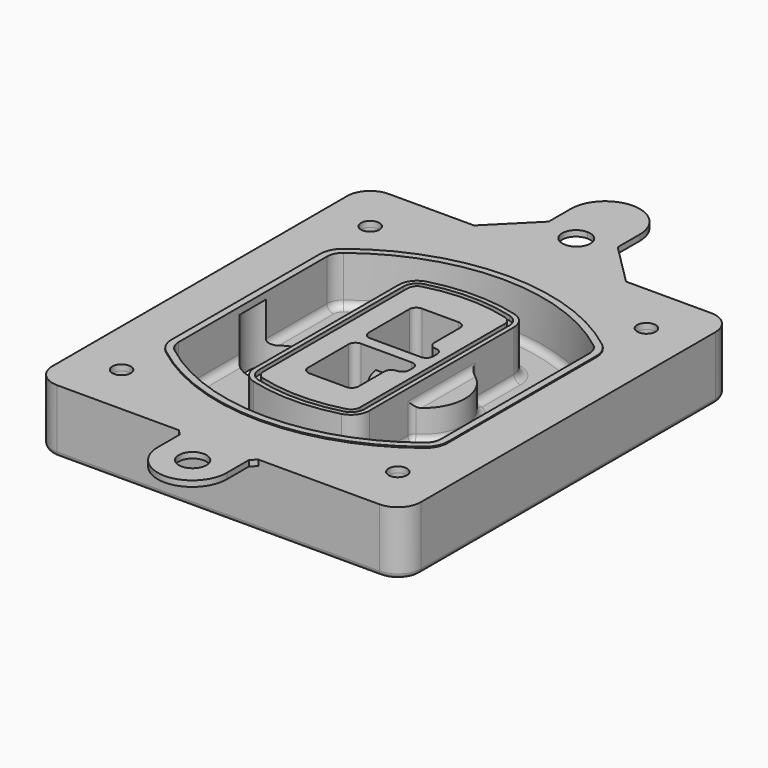
from build123d import *

# Parameters (mm, degrees)
F0_R      = 4
F1_DEPTH  = 25
F2_DEPTH  = 3
F3_DEPTH  = 18
F5_DEPTH  = 21
F6_DEPTH  = 2
F8_DEPTH  = 20
F9_DEPTH  = 16
F10_DEPTH = 25
F7_R      = 6
F7_R_2    = 4
F11_DEPTH = 6
F13_DEPTH = 9
F14_R     = 3
F15_R     = 2
F16_R     = 6
F16_R_2   = 4
F17_DEPTH = 2.5


with BuildPart() as f1:
    # F0 (on Top) → F1 (new body)
    with BuildSketch(Plane.XY):
        with BuildLine():
            ThreePointArc((-80, -80), (-77.0710678119, -87.0710678119), (-70, -90))
            Line((-70, -90), (70, -90))
            ThreePointArc((70, -90), (77.0710678119, -87.0710678119), (80, -80))
            Line((80, -80), (80, 80))
            ThreePointArc((80, 80), (77.0710678119, 87.0710678119), (70, 90))
            Line((70, 90), (-70, 90))
            ThreePointArc((-70, 90), (-77.0710678119, 87.0710678119), (-80, 80))
            Line((-80, 80), (-80, -80))
        make_face()
        with Locations((-60, -67.5)):
            Circle(F0_R, mode=Mode.SUBTRACT)
        with Locations((60, -67.5)):
            Circle(F0_R, mode=Mode.SUBTRACT)
        with Locations((-60, 67.5)):
            Circle(F0_R, mode=Mode.SUBTRACT)
        with BuildLine():
            ThreePointArc((-64, 40.2934422872), (-62.5820384798, 46.4328484224), (-58.6153846154, 51.3286200352))
            ThreePointArc((-58.6153846154, 51.3286200352), (0, 71.5), (58.6153846154, 51.3286200352))
            ThreePointArc((58.6153846154, 51.3286200352), (62.5820384798, 46.4328484224), (64, 40.2934422872))
            Line((64, 40.2934422872), (64, -40.2934422872))
            ThreePointArc((64, -40.2934422872), (62.5820384798, -46.4328484224), (58.6153846154, -51.3286200352))
            ThreePointArc((58.6153846154, -51.3286200352), (0, -71.5), (-58.6153846154, -51.3286200352))
            ThreePointArc((-58.6153846154, -51.3286200352), (-62.5820384798, -46.4328484224), (-64, -40.2934422872))
            Line((-64, -40.2934422872), (-64, 40.2934422872))
        make_face(mode=Mode.SUBTRACT)
        with Locations((60, 67.5)):
            Circle(F0_R, mode=Mode.SUBTRACT)
        with BuildLine():
            ThreePointArc((58.6153846154, 51.3286200352), (0, 71.5), (-58.6153846154, 51.3286200352))
            ThreePointArc((-58.6153846154, 51.3286200352), (-62.5820384798, 46.4328484224), (-64, 40.2934422872))
            Line((-64, 40.2934422872), (-64, -40.2934422872))
            ThreePointArc((-64, -40.2934422872), (-62.5820384798, -46.4328484224), (-58.6153846154, -51.3286200352))
            ThreePointArc((-58.6153846154, -51.3286200352), (0, -71.5), (58.6153846154, -51.3286200352))
            ThreePointArc((58.6153846154, -51.3286200352), (62.5820384798, -46.4328484224), (64, -40.2934422872))
            Line((64, -40.2934422872), (64, 40.2934422872))
            ThreePointArc((64, 40.2934422872), (62.5820384798, 46.4328484224), (58.6153846154, 51.3286200352))
        make_face()
        with BuildLine():
            Line((-60, -40.2934422872), (-60, 40.2934422872))
            ThreePointArc((-60, 40.2934422872), (-58.9871703427, 44.6787323838), (-56.1538461538, 48.1757121072))
            ThreePointArc((-56.1538461538, 48.1757121072), (0, 67.5), (56.1538461538, 48.1757121072))
            ThreePointArc((56.1538461538, 48.1757121072), (58.9871703427, 44.6787323838), (60, 40.2934422872))
            Line((60, 40.2934422872), (60, -40.2934422872))
            ThreePointArc((60, -40.2934422872), (58.9871703427, -44.6787323838), (56.1538461538, -48.1757121072))
            ThreePointArc((56.1538461538, -48.1757121072), (0, -67.5), (-56.1538461538, -48.1757121072))
            ThreePointArc((-56.1538461538, -48.1757121072), (-58.9871703427, -44.6787323838), (-60, -40.2934422872))
        make_face(mode=Mode.SUBTRACT)
        with BuildLine():
            ThreePointArc((-56.1538461538, 48.1757121072), (-58.9871703427, 44.6787323838), (-60, 40.2934422872))
            Line((-60, 40.2934422872), (-60, -40.2934422872))
            ThreePointArc((-60, -40.2934422872), (-58.9871703427, -44.6787323838), (-56.1538461538, -48.1757121072))
            ThreePointArc((-56.1538461538, -48.1757121072), (0, -67.5), (56.1538461538, -48.1757121072))
            ThreePointArc((56.1538461538, -48.1757121072), (58.9871703427, -44.6787323838), (60, -40.2934422872))
            Line((60, -40.2934422872), (60, 40.2934422872))
            ThreePointArc((60, 40.2934422872), (58.9871703427, 44.6787323838), (56.1538461538, 48.1757121072))
            ThreePointArc((56.1538461538, 48.1757121072), (0, 67.5), (-56.1538461538, 48.1757121072))
        make_face()
        with BuildLine():
            ThreePointArc((54.3076923077, 45.8110311612), (56.2910192399, 43.3631453548), (57, 40.2934422872))
            Line((57, 40.2934422872), (57, -40.2934422872))
            ThreePointArc((57, -40.2934422872), (56.2910192399, -43.3631453548), (54.3076923077, -45.8110311612))
            ThreePointArc((54.3076923077, -45.8110311612), (0, -64.5), (-54.3076923077, -45.8110311612))
            ThreePointArc((-54.3076923077, -45.8110311612), (-56.2910192399, -43.3631453548), (-57, -40.2934422872))
            Line((-57, -40.2934422872), (-57, 40.2934422872))
            ThreePointArc((-57, 40.2934422872), (-56.2910192399, 43.3631453548), (-54.3076923077, 45.8110311612))
            ThreePointArc((-54.3076923077, 45.8110311612), (0, 64.5), (54.3076923077, 45.8110311612))
        make_face(mode=Mode.SUBTRACT)
        with BuildLine():
            Line((57, -40.2934422872), (57, 40.2934422872))
            ThreePointArc((57, 40.2934422872), (56.2910192399, 43.3631453548), (54.3076923077, 45.8110311612))
            ThreePointArc((54.3076923077, 45.8110311612), (0, 64.5), (-54.3076923077, 45.8110311612))
            ThreePointArc((-54.3076923077, 45.8110311612), (-56.2910192399, 43.3631453548), (-57, 40.2934422872))
            Line((-57, 40.2934422872), (-57, -40.2934422872))
            ThreePointArc((-57, -40.2934422872), (-56.2910192399, -43.3631453548), (-54.3076923077, -45.8110311612))
            ThreePointArc((-54.3076923077, -45.8110311612), (0, -64.5), (54.3076923077, -45.8110311612))
            ThreePointArc((54.3076923077, -45.8110311612), (56.2910192399, -43.3631453548), (57, -40.2934422872))
        make_face()
    extrude(amount=-F1_DEPTH)

    # F0 (on Top) → F2 (join)
    with BuildSketch(Plane.XY):
        with BuildLine():
            ThreePointArc((-56.1538461538, 48.1757121072), (-58.9871703427, 44.6787323838), (-60, 40.2934422872))
            Line((-60, 40.2934422872), (-60, -40.2934422872))
            ThreePointArc((-60, -40.2934422872), (-58.9871703427, -44.6787323838), (-56.1538461538, -48.1757121072))
            ThreePointArc((-56.1538461538, -48.1757121072), (0, -67.5), (56.1538461538, -48.1757121072))
            ThreePointArc((56.1538461538, -48.1757121072), (58.9871703427, -44.6787323838), (60, -40.2934422872))
            Line((60, -40.2934422872), (60, 40.2934422872))
            ThreePointArc((60, 40.2934422872), (58.9871703427, 44.6787323838), (56.1538461538, 48.1757121072))
            ThreePointArc((56.1538461538, 48.1757121072), (0, 67.5), (-56.1538461538, 48.1757121072))
        make_face()
        with BuildLine():
            ThreePointArc((54.3076923077, 45.8110311612), (56.2910192399, 43.3631453548), (57, 40.2934422872))
            Line((57, 40.2934422872), (57, -40.2934422872))
            ThreePointArc((57, -40.2934422872), (56.2910192399, -43.3631453548), (54.3076923077, -45.8110311612))
            ThreePointArc((54.3076923077, -45.8110311612), (0, -64.5), (-54.3076923077, -45.8110311612))
            ThreePointArc((-54.3076923077, -45.8110311612), (-56.2910192399, -43.3631453548), (-57, -40.2934422872))
            Line((-57, -40.2934422872), (-57, 40.2934422872))
            ThreePointArc((-57, 40.2934422872), (-56.2910192399, 43.3631453548), (-54.3076923077, 45.8110311612))
            ThreePointArc((-54.3076923077, 45.8110311612), (0, 64.5), (54.3076923077, 45.8110311612))
        make_face(mode=Mode.SUBTRACT)
    extrude(amount=F2_DEPTH)

    # F0 (on Top) → F3 (cut)
    with BuildSketch(Plane.XY):
        with BuildLine():
            Line((57, -40.2934422872), (57, 40.2934422872))
            ThreePointArc((57, 40.2934422872), (56.2910192399, 43.3631453548), (54.3076923077, 45.8110311612))
            ThreePointArc((54.3076923077, 45.8110311612), (0, 64.5), (-54.3076923077, 45.8110311612))
            ThreePointArc((-54.3076923077, 45.8110311612), (-56.2910192399, 43.3631453548), (-57, 40.2934422872))
            Line((-57, 40.2934422872), (-57, -40.2934422872))
            ThreePointArc((-57, -40.2934422872), (-56.2910192399, -43.3631453548), (-54.3076923077, -45.8110311612))
            ThreePointArc((-54.3076923077, -45.8110311612), (0, -64.5), (54.3076923077, -45.8110311612))
            ThreePointArc((54.3076923077, -45.8110311612), (56.2910192399, -43.3631453548), (57, -40.2934422872))
        make_face()
    extrude(amount=-F3_DEPTH, mode=Mode.SUBTRACT)

    # F4 (on face) → F5 (join, through all)
    with BuildSketch(Plane.XY.offset(3)):
        with BuildLine():
            ThreePointArc((-25, -39.2465276821), (-23.3511545998, -44.1109737193), (-19.0842911877, -46.9702398883))
            ThreePointArc((-19.0842911877, -46.9702398883), (0, -49.5), (19.0842911877, -46.9702398883))
            ThreePointArc((19.0842911877, -46.9702398883), (23.3511545998, -44.1109737193), (25, -39.2465276821))
            Line((25, -39.2465276821), (25, 39.2465276821))
            ThreePointArc((25, 39.2465276821), (23.3511545998, 44.1109737193), (19.0842911877, 46.9702398883))
            ThreePointArc((19.0842911877, 46.9702398883), (0, 49.5), (-19.0842911877, 46.9702398883))
            ThreePointArc((-19.0842911877, 46.9702398883), (-23.3511545998, 44.1109737193), (-25, 39.2465276821))
            Line((-25, 39.2465276821), (-25, -39.2465276821))
        make_face()
        with BuildLine():
            ThreePointArc((18.5632183908, 45.0393118368), (21.7633659499, 42.89486221), (23, 39.2465276821))
            Line((23, 39.2465276821), (23, -39.2465276821))
            ThreePointArc((23, -39.2465276821), (21.7633659499, -42.89486221), (18.5632183908, -45.0393118368))
            ThreePointArc((18.5632183908, -45.0393118368), (0, -47.5), (-18.5632183908, -45.0393118368))
            ThreePointArc((-18.5632183908, -45.0393118368), (-21.7633659499, -42.89486221), (-23, -39.2465276821))
            Line((-23, -39.2465276821), (-23, 39.2465276821))
            ThreePointArc((-23, 39.2465276821), (-21.7633659499, 42.89486221), (-18.5632183908, 45.0393118368))
            ThreePointArc((-18.5632183908, 45.0393118368), (0, 47.5), (18.5632183908, 45.0393118368))
        make_face(mode=Mode.SUBTRACT)
        with BuildLine():
            Line((23, -39.2465276821), (23, 39.2465276821))
            ThreePointArc((23, 39.2465276821), (21.7633659499, 42.89486221), (18.5632183908, 45.0393118368))
            ThreePointArc((18.5632183908, 45.0393118368), (0, 47.5), (-18.5632183908, 45.0393118368))
            ThreePointArc((-18.5632183908, 45.0393118368), (-21.7633659499, 42.89486221), (-23, 39.2465276821))
            Line((-23, 39.2465276821), (-23, -39.2465276821))
            ThreePointArc((-23, -39.2465276821), (-21.7633659499, -42.89486221), (-18.5632183908, -45.0393118368))
            ThreePointArc((-18.5632183908, -45.0393118368), (0, -47.5), (18.5632183908, -45.0393118368))
            ThreePointArc((18.5632183908, -45.0393118368), (21.7633659499, -42.89486221), (23, -39.2465276821))
        make_face()
        with BuildLine():
            ThreePointArc((18.0421455939, 43.1083837852), (20.1755772999, 41.6787507007), (21, 39.2465276821))
            Line((21, 39.2465276821), (21, -39.2465276821))
            ThreePointArc((21, -39.2465276821), (20.1755772999, -41.6787507007), (18.0421455939, -43.1083837852))
            ThreePointArc((18.0421455939, -43.1083837852), (0, -45.5), (-18.0421455939, -43.1083837852))
            ThreePointArc((-18.0421455939, -43.1083837852), (-20.1755772999, -41.6787507007), (-21, -39.2465276821))
            Line((-21, -39.2465276821), (-21, 39.2465276821))
            ThreePointArc((-21, 39.2465276821), (-20.1755772999, 41.6787507007), (-18.0421455939, 43.1083837852))
            ThreePointArc((-18.0421455939, 43.1083837852), (0, 45.5), (18.0421455939, 43.1083837852))
        make_face(mode=Mode.SUBTRACT)
        with BuildLine():
            Line((21, -39.2465276821), (21, 39.2465276821))
            ThreePointArc((21, 39.2465276821), (20.1755772999, 41.6787507007), (18.0421455939, 43.1083837852))
            ThreePointArc((18.0421455939, 43.1083837852), (0, 45.5), (-18.0421455939, 43.1083837852))
            ThreePointArc((-18.0421455939, 43.1083837852), (-20.1755772999, 41.6787507007), (-21, 39.2465276821))
            Line((-21, 39.2465276821), (-21, -39.2465276821))
            ThreePointArc((-21, -39.2465276821), (-20.1755772999, -41.6787507007), (-18.0421455939, -43.1083837852))
            ThreePointArc((-18.0421455939, -43.1083837852), (0, -45.5), (18.0421455939, -43.1083837852))
            ThreePointArc((18.0421455939, -43.1083837852), (20.1755772999, -41.6787507007), (21, -39.2465276821))
        make_face()
        with BuildLine():
            Line((-8, -2.5), (14, -2.5))
            ThreePointArc((14, -2.5), (16.1213203436, -3.3786796564), (17, -5.5))
            Line((17, -5.5), (17, -7.5))
            ThreePointArc((17, -7.5), (16.1213203436, -9.6213203436), (14, -10.5))
            ThreePointArc((14, -10.5), (11.8786796564, -11.3786796564), (11, -13.5))
            Line((11, -13.5), (11, -27.5))
            ThreePointArc((11, -27.5), (10.1213203436, -29.6213203436), (8, -30.5))
            Line((8, -30.5), (-8, -30.5))
            ThreePointArc((-8, -30.5), (-10.1213203436, -29.6213203436), (-11, -27.5))
            Line((-11, -27.5), (-11, -5.5))
            ThreePointArc((-11, -5.5), (-10.1213203436, -3.3786796564), (-8, -2.5))
        make_face(mode=Mode.SUBTRACT)
        with BuildLine():
            ThreePointArc((-8, 2.5), (-10.1213203436, 3.3786796564), (-11, 5.5))
            Line((-11, 5.5), (-11, 27.5))
            ThreePointArc((-11, 27.5), (-10.1213203436, 29.6213203436), (-8, 30.5))
            Line((-8, 30.5), (8, 30.5))
            ThreePointArc((8, 30.5), (10.1213203436, 29.6213203436), (11, 27.5))
            Line((11, 27.5), (11, 13.5))
            ThreePointArc((11, 13.5), (11.8786796564, 11.3786796564), (14, 10.5))
            ThreePointArc((14, 10.5), (16.1213203436, 9.6213203436), (17, 7.5))
            Line((17, 7.5), (17, 5.5))
            ThreePointArc((17, 5.5), (16.1213203436, 3.3786796564), (14, 2.5))
            Line((14, 2.5), (-8, 2.5))
        make_face(mode=Mode.SUBTRACT)
    extrude(amount=-F5_DEPTH)

    # F4 (on face) → F6 (cut)
    with BuildSketch(Plane.XY.offset(3)):
        with BuildLine():
            Line((23, -39.2465276821), (23, 39.2465276821))
            ThreePointArc((23, 39.2465276821), (21.7633659499, 42.89486221), (18.5632183908, 45.0393118368))
            ThreePointArc((18.5632183908, 45.0393118368), (0, 47.5), (-18.5632183908, 45.0393118368))
            ThreePointArc((-18.5632183908, 45.0393118368), (-21.7633659499, 42.89486221), (-23, 39.2465276821))
            Line((-23, 39.2465276821), (-23, -39.2465276821))
            ThreePointArc((-23, -39.2465276821), (-21.7633659499, -42.89486221), (-18.5632183908, -45.0393118368))
            ThreePointArc((-18.5632183908, -45.0393118368), (0, -47.5), (18.5632183908, -45.0393118368))
            ThreePointArc((18.5632183908, -45.0393118368), (21.7633659499, -42.89486221), (23, -39.2465276821))
        make_face()
        with BuildLine():
            ThreePointArc((18.0421455939, 43.1083837852), (20.1755772999, 41.6787507007), (21, 39.2465276821))
            Line((21, 39.2465276821), (21, -39.2465276821))
            ThreePointArc((21, -39.2465276821), (20.1755772999, -41.6787507007), (18.0421455939, -43.1083837852))
            ThreePointArc((18.0421455939, -43.1083837852), (0, -45.5), (-18.0421455939, -43.1083837852))
            ThreePointArc((-18.0421455939, -43.1083837852), (-20.1755772999, -41.6787507007), (-21, -39.2465276821))
            Line((-21, -39.2465276821), (-21, 39.2465276821))
            ThreePointArc((-21, 39.2465276821), (-20.1755772999, 41.6787507007), (-18.0421455939, 43.1083837852))
            ThreePointArc((-18.0421455939, 43.1083837852), (0, 45.5), (18.0421455939, 43.1083837852))
        make_face(mode=Mode.SUBTRACT)
    extrude(amount=-F6_DEPTH, mode=Mode.SUBTRACT)

    # F7 (on face) → F8 (join)
    with BuildSketch(Plane(origin=(0, 0, -25), x_dir=(1, 0, 0), z_dir=(0, 0, -1))):
        with BuildLine():
            ThreePointArc((3.28842436, 0), (16.7567035675, 13.4682792075), (30.224982775, 0))
            Line((30.224982775, 0), (35.224982775, 0))
            ThreePointArc((35.224982775, 0), (16.7567035675, 18.4682792075), (-1.71157564, 0))
            Line((-1.71157564, 0), (3.28842436, 0))
        make_face()
        with BuildLine():
            Line((3.28842436, 0), (30.224982775, 0))
            ThreePointArc((30.224982775, 0), (16.7567035675, 13.4682792075), (3.28842436, 0))
        make_face()
        with BuildLine():
            ThreePointArc((3.28842436, 0), (16.7567035675, -13.4682792075), (30.224982775, 0))
            Line((30.224982775, 0), (3.28842436, 0))
        make_face()
        with BuildLine():
            Line((35.224982775, 0), (30.224982775, 0))
            ThreePointArc((30.224982775, 0), (16.7567035675, -13.4682792075), (3.28842436, 0))
            Line((3.28842436, 0), (-1.71157564, 0))
            ThreePointArc((-1.71157564, 0), (16.7567035675, -18.4682792075), (35.224982775, 0))
        make_face()
    extrude(amount=-F8_DEPTH)

    # F7 (on face) → F9 (cut)
    with BuildSketch(Plane(origin=(0, 0, -25), x_dir=(1, 0, 0), z_dir=(0, 0, -1))):
        with BuildLine():
            Line((3.28842436, 0), (30.224982775, 0))
            ThreePointArc((30.224982775, 0), (16.7567035675, 13.4682792075), (3.28842436, 0))
        make_face()
        with BuildLine():
            ThreePointArc((3.28842436, 0), (16.7567035675, -13.4682792075), (30.224982775, 0))
            Line((30.224982775, 0), (3.28842436, 0))
        make_face()
    extrude(amount=-F9_DEPTH, mode=Mode.SUBTRACT)

    # F7 (on face) → F10 (cut)
    with BuildSketch(Plane(origin=(0, 0, -25), x_dir=(1, 0, 0), z_dir=(0, 0, -1))):
        with BuildLine():
            Line((-59.0318229325, 0), (-32.0952645175, 0))
            ThreePointArc((-32.0952645175, 0), (-45.563543725, 13.4682792075), (-59.0318229325, 0))
        make_face()
        with BuildLine():
            ThreePointArc((-59.0318229325, 0), (-45.563543725, -13.4682792075), (-32.0952645175, 0))
            Line((-32.0952645175, 0), (-59.0318229325, 0))
        make_face()
    extrude(amount=-F10_DEPTH, mode=Mode.SUBTRACT)

    # F7 (on face) → F11 (cut)
    with BuildSketch(Plane(origin=(0, 0, -25), x_dir=(1, 0, 0), z_dir=(0, 0, -1))):
        with Locations((60, -67.5)):
            Circle(F7_R)
        with Locations((60, -67.5)):
            Circle(F7_R_2, mode=Mode.SUBTRACT)
        with Locations((60, -67.5)):
            Circle(F7_R)
        with Locations((60, -67.5)):
            Circle(F7_R_2, mode=Mode.SUBTRACT)
        with Locations((-60, -67.5)):
            Circle(F7_R)
        with Locations((-60, -67.5)):
            Circle(F7_R_2, mode=Mode.SUBTRACT)
        with Locations((-60, -67.5)):
            Circle(F7_R)
        with Locations((-60, -67.5)):
            Circle(F7_R_2, mode=Mode.SUBTRACT)
        with Locations((-60, 67.5)):
            Circle(F7_R)
        with Locations((-60, 67.5)):
            Circle(F7_R_2, mode=Mode.SUBTRACT)
        with Locations((-60, 67.5)):
            Circle(F7_R)
        with Locations((-60, 67.5)):
            Circle(F7_R_2, mode=Mode.SUBTRACT)
        with Locations((60, 67.5)):
            Circle(F7_R)
        with Locations((60, 67.5)):
            Circle(F7_R_2, mode=Mode.SUBTRACT)
        with Locations((60, 67.5)):
            Circle(F7_R)
        with Locations((60, 67.5)):
            Circle(F7_R_2, mode=Mode.SUBTRACT)
    extrude(amount=-F11_DEPTH, mode=Mode.SUBTRACT)

    # F12 (on face) → F13 (cut, through all)
    with BuildSketch(Plane(origin=(0, 0, -9), x_dir=(1, 0, 0), z_dir=(0, 0, -1))):
        with BuildLine():
            Line((11, 13.5), (11, 17.5481537753))
            ThreePointArc((11, 17.5481537753), (2.5696536419, 11.8239143813), (-1.5415842455, 2.5))
            Line((-1.5415842455, 2.5), (3.5224848595, 2.5))
            ThreePointArc((3.5224848595, 2.5), (6.1857188154, 8.3455872281), (11.2536447004, 12.2927168648))
            ThreePointArc((11.2536447004, 12.2927168648), (11.0640958889, 12.8831798879), (11, 13.5))
        make_face()
        with BuildLine():
            ThreePointArc((11.2536447004, -12.2927168648), (6.1857188154, -8.3455872281), (3.5224848595, -2.5))
            Line((3.5224848595, -2.5), (-1.5415842455, -2.5))
            ThreePointArc((-1.5415842455, -2.5), (2.5696536419, -11.8239143813), (11, -17.5481537753))
            Line((11, -17.5481537753), (11, -13.5))
            ThreePointArc((11, -13.5), (11.0640958889, -12.8831798879), (11.2536447004, -12.2927168648))
        make_face()
        with BuildLine():
            ThreePointArc((11.2536447004, 12.2927168648), (6.1857188154, 8.3455872281), (3.5224848595, 2.5))
            Line((3.5224848595, 2.5), (14, 2.5))
            ThreePointArc((14, 2.5), (16.1213203436, 3.3786796564), (17, 5.5))
            Line((17, 5.5), (17, 7.5))
            ThreePointArc((17, 7.5), (16.1213203436, 9.6213203436), (14, 10.5))
            ThreePointArc((14, 10.5), (12.3601599782, 10.9878446101), (11.2536447004, 12.2927168648))
        make_face()
        with BuildLine():
            Line((14, -2.5), (3.5224848595, -2.5))
            ThreePointArc((3.5224848595, -2.5), (6.1857188154, -8.3455872281), (11.2536447004, -12.2927168648))
            ThreePointArc((11.2536447004, -12.2927168648), (12.3601599782, -10.9878446101), (14, -10.5))
            ThreePointArc((14, -10.5), (16.1213203436, -9.6213203436), (17, -7.5))
            Line((17, -7.5), (17, -5.5))
            ThreePointArc((17, -5.5), (16.1213203436, -3.3786796564), (14, -2.5))
        make_face()
    extrude(amount=F13_DEPTH, mode=Mode.SUBTRACT)

    # F14
    f14_edges = [f1.edges().sort_by_distance(p)[0] for p in [
        (-57, -23.703476, -18),
        (-57, 23.703476, -18),
        (25, 0, -5),
        (25, 16.526506, -11.5),
        (25, -16.526506, -11.5),
        (25, -27.886517, -18),
        (35.224983, 0, -18),
    ]]
    fillet(f14_edges, radius=F14_R)

    # F15
    f15_edges = [f1.edges().sort_by_distance(p)[0] for p in [
        (0, -90, -25),
    ]]
    fillet(f15_edges, radius=F15_R)

    # F16 (on face) → F17 (join)
    with BuildSketch(Plane.XY):
        with BuildLine():
            Line((-14.8691791376, 120.0000074506), (-14.8691791376, 108.0000074506))
            Line((-14.8691791376, 108.0000074506), (-32.8691865882, 90))
            Line((-32.8691865882, 90), (-17.1191865882, 90))
            Line((-17.1191865882, 90), (33.1308283129, 90))
            Line((33.1308283129, 90), (15.1308208624, 108.0000074506))
            Line((15.1308208624, 108.0000074506), (15.1308208624, 120.0000074506))
            ThreePointArc((15.1308208624, 120.0000074506), (0.1308208624, 135.0000074506), (-14.8691791376, 120.0000074506))
        make_face()
        with BuildLine():
            ThreePointArc((0.1308208624, 98.2514263444), (-6, 104.25), (0.1308208624, 110.2485736556))
            ThreePointArc((0.1308208624, 110.2485736556), (4.4577753514, 108.5386434437), (6.2616417247, 104.25))
            ThreePointArc((6.2616417247, 104.25), (4.4577753514, 99.9613565563), (0.1308208624, 98.2514263444))
        make_face(mode=Mode.SUBTRACT)
        with BuildLine():
            Line((-32.8691865882, -74.25), (-14.8691791376, -92.2500074506))
            Line((-14.8691791376, -92.2500074506), (-14.8691791376, -104.2500074506))
            ThreePointArc((-14.8691791376, -104.2500074506), (0.1308208624, -119.2500074506), (15.1308208624, -104.2500074506))
            Line((15.1308208624, -104.2500074506), (15.1308208624, -92.2500074506))
            Line((15.1308208624, -92.2500074506), (33.1308283129, -74.25))
            Line((33.1308283129, -74.25), (-32.8691865882, -74.25))
        make_face()
        with Locations((0.2616417247, -104.25)):
            Circle(F16_R, mode=Mode.SUBTRACT)
        with BuildLine():
            Line((-63.9883582753, 90), (-70, 90))
            ThreePointArc((-70, 90), (-77.0710678119, 87.0710678119), (-80, 80))
            Line((-80, 80), (-80, -80))
            ThreePointArc((-80, -80), (-77.0710678119, -87.0710678119), (-70, -90))
            Line((-70, -90), (-17.1191865882, -90))
            Line((-17.1191865882, -90), (-32.8691865882, -74.25))
            Line((-32.8691865882, -74.25), (33.1308283129, -74.25))
            Line((33.1308283129, -74.25), (17.3808283129, -90))
            Line((17.3808283129, -90), (70, -90))
            ThreePointArc((70, -90), (77.0710678119, -87.0710678119), (80, -80))
            Line((80, -80), (80, 80))
            ThreePointArc((80, 80), (77.0710678119, 87.0710678119), (70, 90))
            Line((70, 90), (64.5116417247, 90))
            Line((64.5116417247, 90), (33.1308283129, 90))
            Line((33.1308283129, 90), (-17.1191865882, 90))
            Line((-17.1191865882, 90), (-32.8691865882, 90))
            Line((-32.8691865882, 90), (-63.9883582753, 90))
        make_face()
        with Locations((-60, -67.5)):
            Circle(F16_R_2, mode=Mode.SUBTRACT)
        with Locations((60, -67.5)):
            Circle(F16_R_2, mode=Mode.SUBTRACT)
        with BuildLine():
            ThreePointArc((-60, 40.2934422872), (-58.9871703427, 44.6787323838), (-56.1538461538, 48.1757121072))
            ThreePointArc((-56.1538461538, 48.1757121072), (0, 67.5), (56.1538461538, 48.1757121072))
            ThreePointArc((56.1538461538, 48.1757121072), (58.9871703427, 44.6787323838), (60, 40.2934422872))
            Line((60, 40.2934422872), (60, -40.2934422872))
            ThreePointArc((60, -40.2934422872), (58.9871703427, -44.6787323838), (56.1538461538, -48.1757121072))
            ThreePointArc((56.1538461538, -48.1757121072), (0, -67.5), (-56.1538461538, -48.1757121072))
            ThreePointArc((-56.1538461538, -48.1757121072), (-58.9871703427, -44.6787323838), (-60, -40.2934422872))
            Line((-60, -40.2934422872), (-60, 40.2934422872))
        make_face(mode=Mode.SUBTRACT)
        with Locations((-60, 67.5)):
            Circle(F16_R_2, mode=Mode.SUBTRACT)
        with Locations((60, 67.5)):
            Circle(F16_R_2, mode=Mode.SUBTRACT)
    extrude(amount=F17_DEPTH)


solid = f1.part
